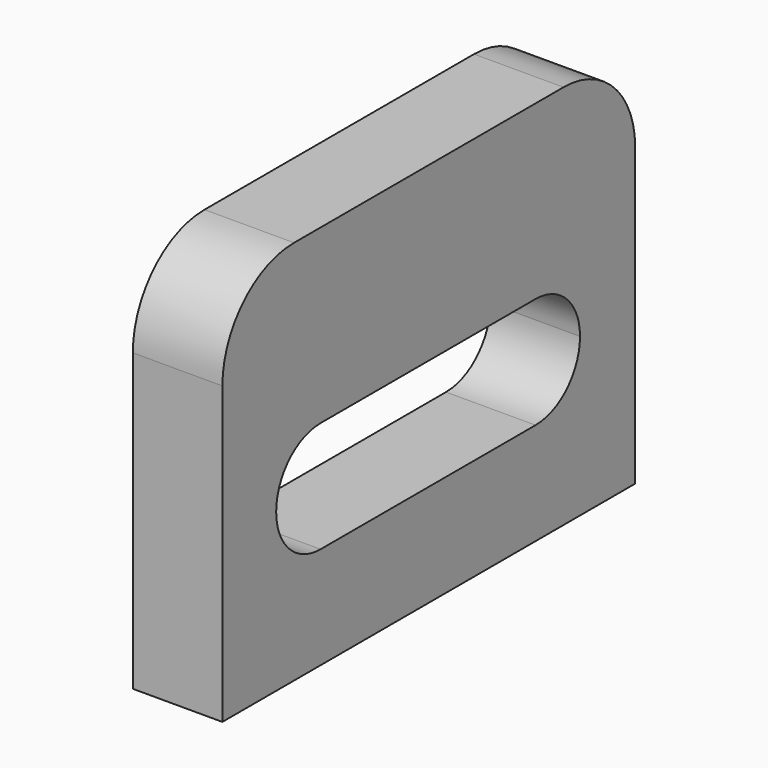
from build123d import *

# Parameters (mm, degrees)
F1_DEPTH = 12.7


with BuildPart() as f1:
    # F0 (on Right) → F1 (new body)
    with BuildSketch(Plane.YZ):
        with BuildLine():
            Line((0, 41.94333), (0, 0))
            Line((0, 0), (73.158316, 0))
            Line((73.158316, 0), (73.158316, 41.94333))
            ThreePointArc((73.158316, 41.94333), (69.438572, 50.923586), (60.458316, 54.64333))
            Line((60.458316, 54.64333), (12.7, 54.64333))
            ThreePointArc((12.7, 54.64333), (3.719744, 50.923586), (0, 41.94333))
        make_face()
        with BuildLine():
            ThreePointArc((9.530765, 22.352), (11.837006, 27.919759), (17.404765, 30.226))
            Line((17.404765, 30.226), (55.504765, 30.226))
            ThreePointArc((55.504765, 30.226), (61.072524, 27.919759), (63.378765, 22.352))
            ThreePointArc((63.378765, 22.352), (61.072524, 16.784241), (55.504765, 14.478))
            Line((55.504765, 14.478), (17.404765, 14.478))
            ThreePointArc((17.404765, 14.478), (11.837006, 16.784241), (9.530765, 22.352))
        make_face(mode=Mode.SUBTRACT)
    extrude(amount=F1_DEPTH)


solid = f1.part
